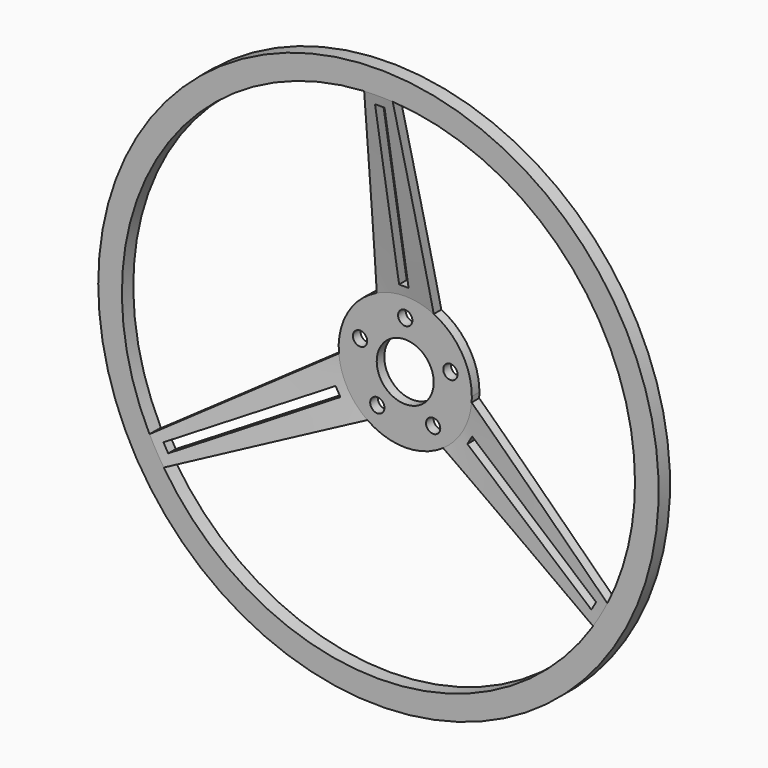
from build123d import *

# Parameters (mm, degrees)
F2_W          = 2.54
F2_H          = 91.44
F2_R          = 3.81
F3_DEPTH      = 17.907674907
F3_DEPTH_BACK = 5.081
F4_DEPTH      = 17.907674907
F4_DEPTH_BACK = 5.081


with BuildPart() as f1:
    # F0 (on Top) → F1 (revolve)
    with BuildSketch(Plane.XY):
        Polygon((-15.24, -5.08), (-15.24, 0), (-35.56, 0), (-137.16, -17.91482124), (-137.16, -15.366674907), (-149.86, -15.366674907), (-149.86, -22.986674907), (-137.16, -22.986674907), (-35.60620015, -5.08), align=None)
    revolve(axis=Axis((0, -3.722413492, 0), (0, -1, 0)))

    # F2 (on face) → F3 (cut, two sides)
    with BuildSketch(Plane.XZ.offset(5.08)) as f3_sk:
        Polygon((-114.4246458354, -66.063100075), (-35.2352829134, -20.343100075), (-36.5052829134, -18.1433955494), (-115.6946458354, -63.8633955494), align=None)
        Polygon((-33.9652829134, -22.5428046006), (-35.2352829134, -20.343100075), (-114.4246458354, -66.063100075), (-113.1546458354, -68.2628046006), align=None)
        with Locations((-1.27, 86.40620015)):
            Rectangle(F2_W, F2_H)
        with Locations((1.27, 86.40620015)):
            Rectangle(F2_W, F2_H)
        Polygon((114.4246458354, -66.063100075), (35.2352829134, -20.343100075), (33.9652829134, -22.5428046006), (113.1546458354, -68.2628046006), align=None)
        Polygon((36.5052829134, -18.1433955494), (35.2352829134, -20.343100075), (114.4246458354, -66.063100075), (115.6946458354, -63.8633955494), align=None)
        with Locations((0, 25.4)):
            Circle(F2_R)
        with Locations((-24.1568355139, 7.8490316571)):
            Circle(F2_R)
        with Locations((24.1568355139, 7.8490316571)):
            Circle(F2_R)
        with Locations((14.9297454082, -20.5490316571)):
            Circle(F2_R)
        with Locations((-14.9297454082, -20.5490316571)):
            Circle(F2_R)
    extrude(amount=F3_DEPTH, mode=Mode.SUBTRACT)
    extrude(f3_sk.sketch, amount=-F3_DEPTH_BACK, mode=Mode.SUBTRACT)

    # F2 (on face) → F4 (cut, two sides)
    with BuildSketch(Plane.XZ.offset(5.08)) as f4_sk:
        with BuildLine():
            Line((7.6354261028, 136.9935824331), (15.24, 32.1798677611))
            ThreePointArc((15.24, 32.1798677611), (30.0868740434, 19.041572924), (35.60620015, 0))
            ThreePointArc((35.60620015, 0), (35.5767837041, -1.4470488585), (35.4885829716, -2.8917067269))
            Line((35.4885829716, -2.8917067269), (122.4576355939, -61.8843182428))
            ThreePointArc((122.4576355939, -61.8843182428), (133.4681389299, -31.808760589), (137.20620015, 0))
            ThreePointArc((137.20620015, 0), (99.6824186146, 94.2812641979), (7.6354261028, 136.9935824331))
        make_face()
        with BuildLine():
            ThreePointArc((-35.4885829716, -2.8917067269), (-30.8358738622, 17.803100075), (-15.24, 32.1798677612))
            Line((-15.24, 32.1798677611), (-7.6354261028, 136.9935824331))
            ThreePointArc((-7.6354261028, 136.9935824331), (-118.8240548867, 68.603100075), (-122.4576355939, -61.8843182428))
            Line((-122.4576355939, -61.8843182428), (-35.4885829716, -2.8917067269))
        make_face()
        with BuildLine():
            ThreePointArc((20.2485829716, -29.2881610342), (0, -35.60620015), (-20.2485829716, -29.2881610342))
            Line((-20.2485829716, -29.2881610342), (-114.822209491, -75.1092641903))
            ThreePointArc((-114.822209491, -75.1092641903), (0, -137.20620015), (114.822209491, -75.1092641903))
            Line((114.822209491, -75.1092641903), (20.2485829716, -29.2881610342))
        make_face()
    extrude(amount=F4_DEPTH, mode=Mode.SUBTRACT)
    extrude(f4_sk.sketch, amount=-F4_DEPTH_BACK, mode=Mode.SUBTRACT)


solid = f1.part
